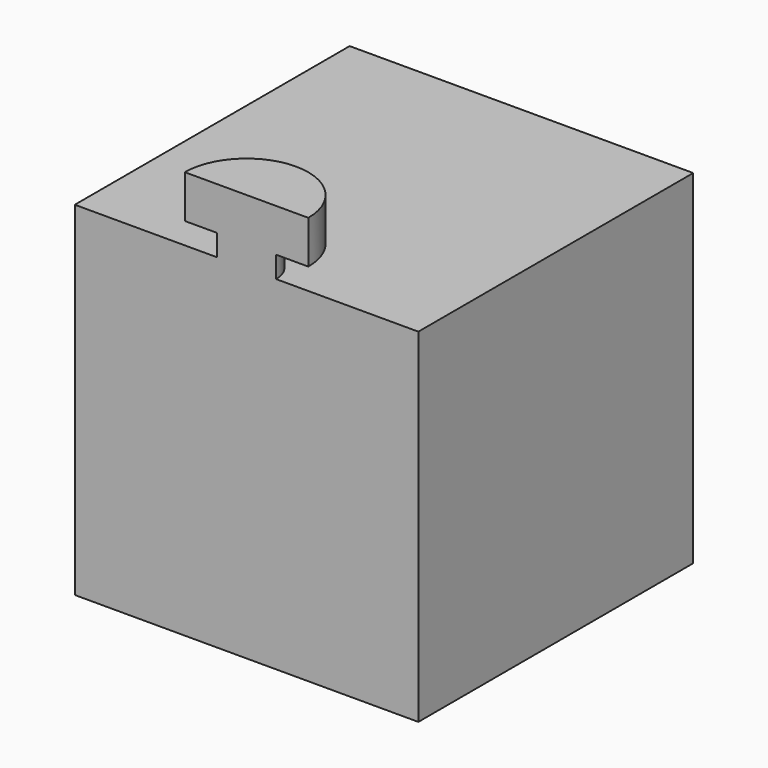
from build123d import *

# Parameters (mm, degrees)
F0_W     = 25.4
F0_H     = 25.4
F1_DEPTH = 25.4
F3_DEPTH = 1.5875
F5_DEPTH = 3.175


with BuildPart() as f1:
    # F0 (on Top) → F1 (new body)
    with BuildSketch(Plane.XY):
        Rectangle(F0_W, F0_H)
    extrude(amount=F1_DEPTH)

    # F2 (on face) → F3 (join)
    with BuildSketch(Plane.XY.offset(25.4)):
        with BuildLine():
            Line((-2.182813, -12.7), (2.182813, -12.7))
            ThreePointArc((2.182813, -12.7), (0, -10.517188), (-2.182813, -12.7))
        make_face()
    extrude(amount=F3_DEPTH)

    # F4 (on face) → F5 (join)
    with BuildSketch(Plane.XY.offset(26.9875)):
        with BuildLine():
            Line((-4.564063, -12.7), (4.564063, -12.7))
            ThreePointArc((4.564063, -12.7), (0, -8.135938), (-4.564063, -12.7))
        make_face()
    extrude(amount=F5_DEPTH)


solid = f1.part
